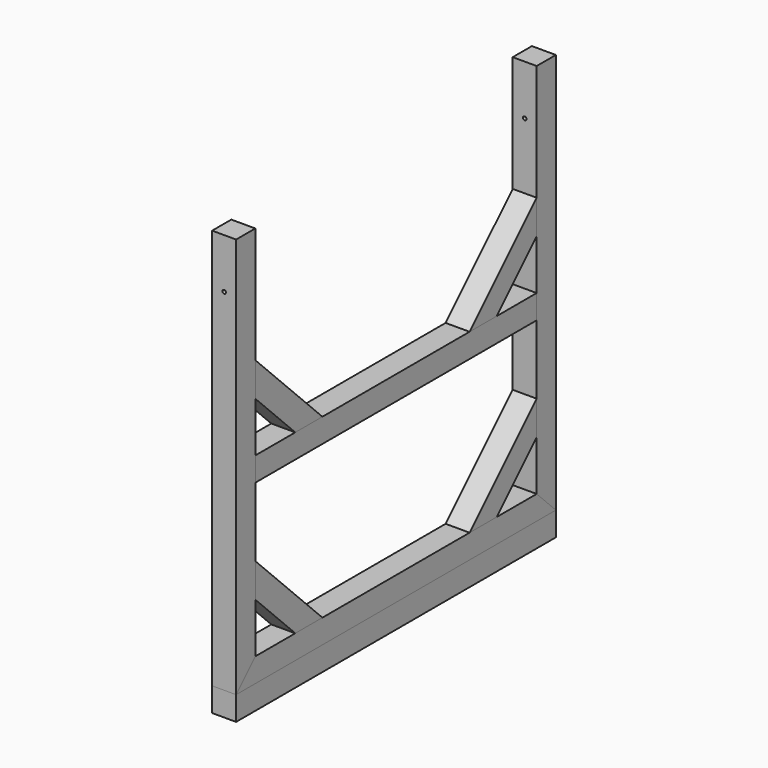
from build123d import *

# Parameters (mm, degrees)
F1_DEPTH  = 48
F2_DEPTH  = 48
F3_DEPTH  = 48
F4_DEPTH  = 48
F5_DEPTH  = 48
F6_DEPTH  = 48
F7_DEPTH  = 48
F9_DEPTH  = 800.001
F10_DEPTH = 48
F11_DEPTH = 48


with BuildPart() as f1:
    # F0 (on Right) → F1 (new body)
    with BuildSketch(Plane.YZ):
        Polygon((537.056778, -144.34871), (585.056778, -192.34871), (585.056778, 609.65129), (537.056778, 609.65129), (537.056778, 377.533541), (537.056778, 309.65129), (537.056778, 209.65129), (537.056778, 161.65129), (537.056778, 23.533541), (537.056778, -44.34871), align=None)
    extrude(amount=-F1_DEPTH)


with BuildPart() as f2:
    # F0 (on Right) → F2 (new body)
    with BuildSketch(Plane.YZ):
        Polygon((-166.943222, 609.65129), (-214.943222, 609.65129), (-214.943222, -192.34871), (-166.943222, -144.34871), (-166.943222, -44.34871), (-166.943222, 23.533541), (-166.943222, 161.65129), (-166.943222, 209.65129), (-166.943222, 309.65129), (-166.943222, 377.533541), align=None)
    extrude(amount=-F2_DEPTH)


with BuildPart() as f3:
    # F0 (on Right) → F3 (new body)
    with BuildSketch(Plane.YZ):
        Polygon((-166.943222, 23.533541), (-166.943222, -44.34871), (-66.943222, -144.34871), (0.939029, -144.34871), align=None)
    extrude(amount=-F3_DEPTH)


with BuildPart() as f4:
    # F0 (on Right) → F4 (new body)
    with BuildSketch(Plane.YZ):
        Polygon((0.939029, 209.65129), (-166.943222, 377.533541), (-166.943222, 309.65129), (-66.943222, 209.65129), align=None)
    extrude(amount=-F4_DEPTH)


with BuildPart() as f5:
    # F0 (on Right) → F5 (new body)
    with BuildSketch(Plane.YZ):
        Polygon((537.056778, 377.533541), (369.174527, 209.65129), (437.056778, 209.65129), (537.056778, 309.65129), align=None)
    extrude(amount=-F5_DEPTH)


with BuildPart() as f6:
    # F0 (on Right) → F6 (new body)
    with BuildSketch(Plane.YZ):
        Polygon((537.056778, 23.533541), (369.174527, -144.34871), (437.056778, -144.34871), (537.056778, -44.34871), align=None)
    extrude(amount=-F6_DEPTH)


with BuildPart() as f7:
    # F0 (on Right) → F7 (new body)
    with BuildSketch(Plane.YZ):
        Polygon((369.174527, 209.65129), (0.939029, 209.65129), (-66.943222, 209.65129), (-166.943222, 209.65129), (-166.943222, 161.65129), (537.056778, 161.65129), (537.056778, 209.65129), (437.056778, 209.65129), align=None)
    extrude(amount=-F7_DEPTH)


with BuildPart() as f9_tool:
    # F8 (on face) → F9 (new body, through all)
    with BuildSketch(Plane.XZ.offset(214.943222)):
        with BuildLine():
            ThreePointArc((-20.5, 509.65129), (-24, 513.15129), (-27.5, 509.65129))
            Line((-27.5, 509.65129), (-24, 509.65129))
            Line((-24, 509.65129), (-20.5, 509.65129))
        make_face()
        with BuildLine():
            Line((-24, 509.65129), (-27.5, 509.65129))
            ThreePointArc((-27.5, 509.65129), (-24, 506.15129), (-20.5, 509.65129))
            Line((-20.5, 509.65129), (-24, 509.65129))
        make_face()
    extrude(amount=-F9_DEPTH)


with BuildPart() as f1_1:
    add(f1.part)

    # F9: cut by f9_tool
    add(f9_tool.part, mode=Mode.SUBTRACT)


with BuildPart() as f2_1:
    add(f2.part)

    # F9: cut by f9_tool
    add(f9_tool.part, mode=Mode.SUBTRACT)


with BuildPart() as f10:
    # F0 (on Right) → F10 (new body)
    with BuildSketch(Plane.YZ):
        Polygon((-166.943222, -144.34871), (-214.943222, -192.34871), (-166.943222, -192.34871), (537.056778, -192.34871), (585.056778, -192.34871), (537.056778, -144.34871), (437.056778, -144.34871), (369.174527, -144.34871), (0.939029, -144.34871), (-66.943222, -144.34871), align=None)
    extrude(amount=-F10_DEPTH)


with BuildPart() as f11:
    # F0 (on Right) → F11 (new body)
    with BuildSketch(Plane.YZ):
        Polygon((-166.943222, -192.34871), (-214.943222, -192.34871), (-214.943222, -240.34871), (585.056778, -240.34871), (585.056778, -192.34871), (537.056778, -192.34871), align=None)
    extrude(amount=-F11_DEPTH)


solid = Compound([f3.part, f4.part, f5.part, f6.part, f7.part, f1_1.part, f2_1.part, f10.part, f11.part])
